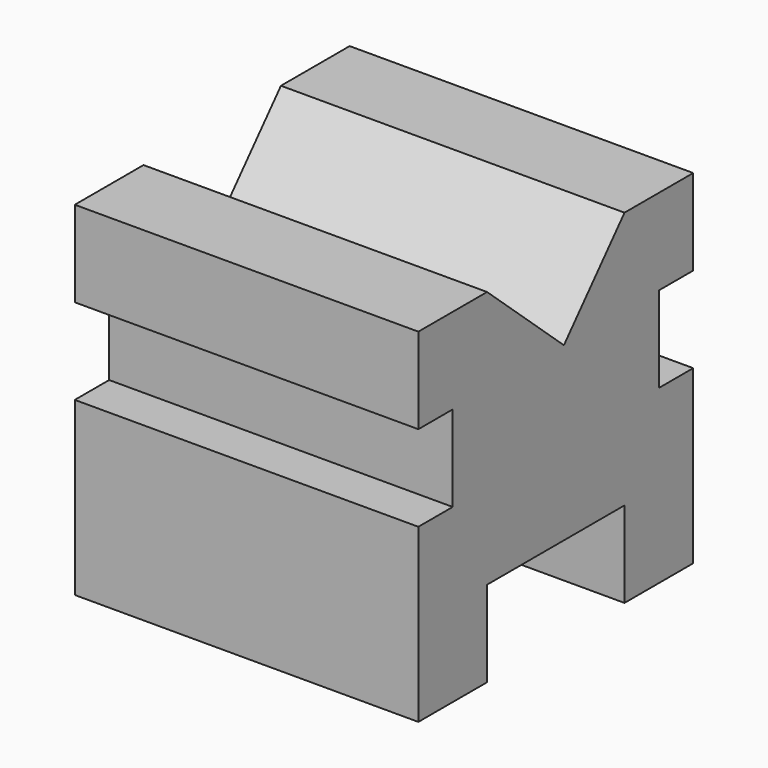
from build123d import *

# Parameters (mm, degrees)
F0_W     = 101.6
F0_H     = 101.6
F1_DEPTH = 101.6
F2_W     = 12.7
F2_H     = 25.4
F3_DEPTH = 101.6
F4_W     = 50.8
F4_H     = 25.4
F5_DEPTH = 127
F6_W     = 12.7
F6_H     = 25.4
F7_DEPTH = 101.6
F9_DEPTH = 1397


with BuildPart() as f1:
    # F0 (on Front) → F1 (new body)
    with BuildSketch(Plane.XZ):
        with Locations((-50.8, 50.8)):
            Rectangle(F0_W, F0_H)
    extrude(amount=F1_DEPTH)

    # F2 (on face) → F3 (cut)
    with BuildSketch(Plane.YZ):
        with Locations((-95.25, 63.5)):
            Rectangle(F2_W, F2_H)
    extrude(amount=-F3_DEPTH, mode=Mode.SUBTRACT)

    # F4 (on face) → F5 (cut)
    with BuildSketch(Plane.YZ):
        with Locations((-50.8, 12.7)):
            Rectangle(F4_W, F4_H)
    extrude(amount=-F5_DEPTH, mode=Mode.SUBTRACT)

    # F6 (on face) → F7 (cut)
    with BuildSketch(Plane(origin=(-101.6, 0, 0), x_dir=(0, -1, 0), z_dir=(-1, 0, 0))):
        with Locations((6.35, 63.5)):
            Rectangle(F6_W, F6_H)
    extrude(amount=-F7_DEPTH, mode=Mode.SUBTRACT)

    # F8 (on face) → F9 (cut)
    with BuildSketch(Plane.YZ):
        Polygon((-25.4, 101.6), (-76.2, 101.6), (-47.801937, 76.2), align=None)
    extrude(amount=-F9_DEPTH, mode=Mode.SUBTRACT)


solid = f1.part
